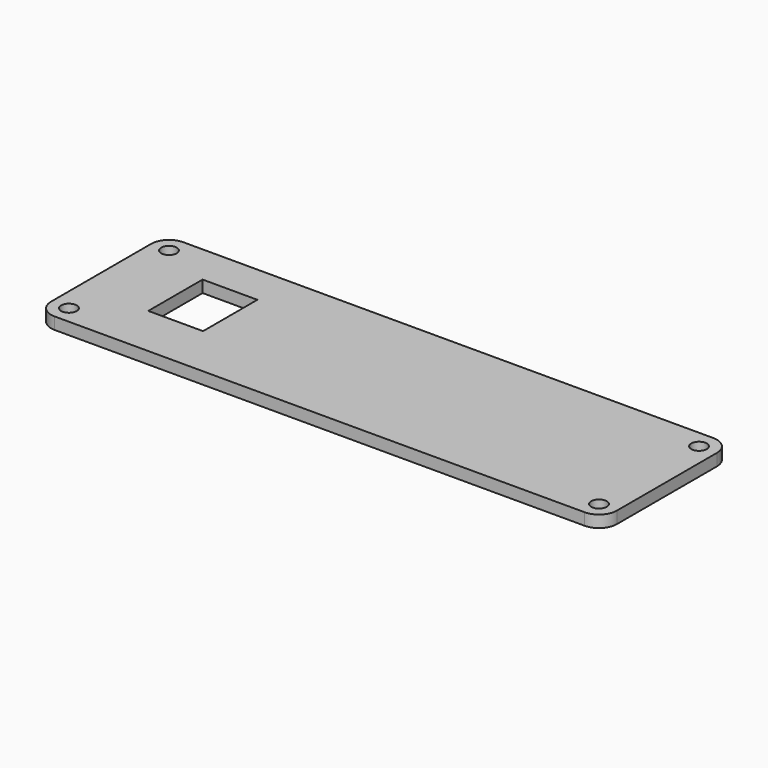
from build123d import *

# Parameters (mm, degrees)
SKETCH003_W             = 95
SKETCH003_H             = 27
PAD002_DEPTH            = 2
SKETCH004_R             = 1.3
POCKET001_DEPTH         = 2
FILLET002_R             = 3
SKETCH005_W             = 9.2
SKETCH005_H             = 11.4
POCKET002_DEPTH         = 2
BODY001_PLACEMENT_ANGLE = 180


with BuildPart() as part:
    # Sketch003 → Pad002 (new body)
    with BuildSketch(Plane.XY):
        Rectangle(SKETCH003_W, SKETCH003_H)
    extrude(amount=PAD002_DEPTH)

    # Sketch004 (on Face6 of Pad002) → Pocket001 (cut)
    with BuildSketch(Plane.XY.offset(2)):
        with Locations((-44.5, 10.5)):
            Circle(SKETCH004_R)
        with Locations((44.5, 10.5)):
            Circle(SKETCH004_R)
        with Locations((44.5, -10.5)):
            Circle(SKETCH004_R)
        with Locations((-44.5, -10.5)):
            Circle(SKETCH004_R)
    extrude(amount=-POCKET001_DEPTH, mode=Mode.SUBTRACT)

    # Fillet002
    fillet002_edges = [part.edges().sort_by_distance(p)[0] for p in [
        (-47.5, -13.5, 1),
        (47.5, -13.5, 1),
        (47.5, 13.5, 1),
        (-47.5, 13.5, 1),
    ]]
    fillet(fillet002_edges, radius=FILLET002_R)

    # Sketch005 (on Face5 of Fillet002) → Pocket002 (cut)
    with BuildSketch(Plane.XY.offset(2)):
        with Locations((31.3, 1.1)):
            Rectangle(SKETCH005_W, SKETCH005_H)
    extrude(amount=-POCKET002_DEPTH, mode=Mode.SUBTRACT)


with BuildPart() as part_1:
    # Body001 placement: moved
    add(part.part.moved(Location((0, -1, -0.4))).rotate(Axis((0, -1, -0.4), (0, 1, 0)), BODY001_PLACEMENT_ANGLE))


solid = part_1.part
